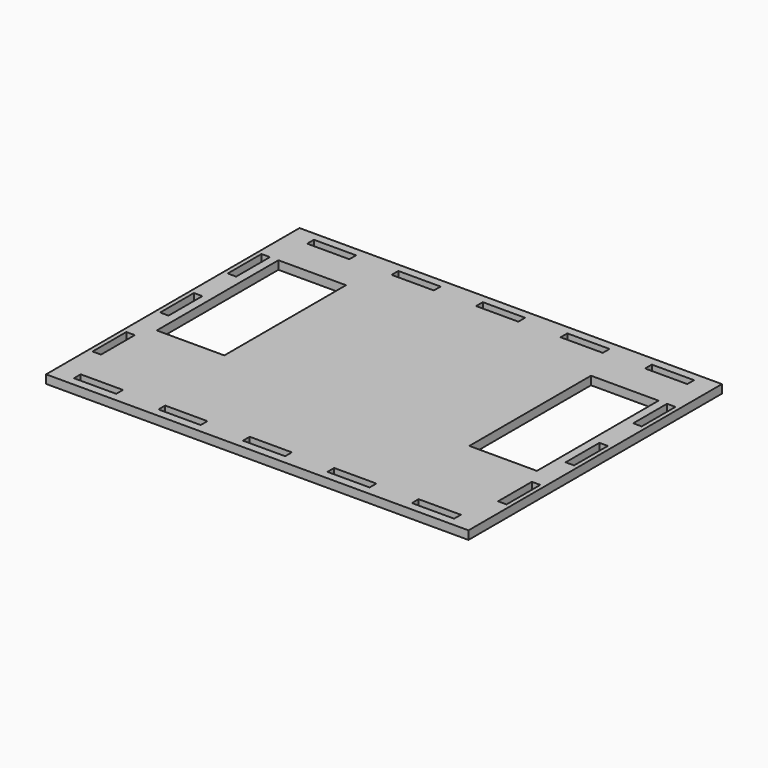
from build123d import *

# Parameters (mm, degrees)
F0_W     = 20
F0_H     = 4
F0_W_2   = 32
F0_H_2   = 72
F1_DEPTH = 4


with BuildPart() as f1:
    # F0 (on Top) → F1 (new body)
    with BuildSketch(Plane.XY):
        Polygon((100, -10), (100, 75), (30, 75), (10, 75), (-100, 75), (-100, -75), (100, -75), (100, -70), (100, -50), (100, -30), align=None)
        with Locations((-80, -69)):
            Rectangle(F0_W, F0_H, mode=Mode.SUBTRACT)
        Polygon((-98, -30), (-94, -30), (-94, -40), (-94, -50), (-98, -50), (-98, -40), align=None, mode=Mode.SUBTRACT)
        with Locations((-40, -69)):
            Rectangle(F0_W, F0_H, mode=Mode.SUBTRACT)
        with Locations((0, -69)):
            Rectangle(F0_W, F0_H, mode=Mode.SUBTRACT)
        with Locations((40, -69)):
            Rectangle(F0_W, F0_H, mode=Mode.SUBTRACT)
        with Locations((80, -69)):
            Rectangle(F0_W, F0_H, mode=Mode.SUBTRACT)
        Polygon((94, -40), (94, -30), (98, -30), (98, -40), (98, -50), (94, -50), align=None, mode=Mode.SUBTRACT)
        Polygon((-98, -10), (-98, 0), (-98, 10), (-94, 10), (-94, 0), (-94, -10), align=None, mode=Mode.SUBTRACT)
        with Locations((-74, 14)):
            Rectangle(F0_W_2, F0_H_2, mode=Mode.SUBTRACT)
        Polygon((-98, 30), (-98, 40), (-98, 50), (-94, 50), (-94, 40), (-94, 30), align=None, mode=Mode.SUBTRACT)
        with Locations((-80, 69)):
            Rectangle(F0_W, F0_H, mode=Mode.SUBTRACT)
        with Locations((-40, 69)):
            Rectangle(F0_W, F0_H, mode=Mode.SUBTRACT)
        with Locations((74, 14)):
            Rectangle(F0_W_2, F0_H_2, mode=Mode.SUBTRACT)
        Polygon((94, -10), (94, 0), (94, 10), (98, 10), (98, 0), (98, -10), align=None, mode=Mode.SUBTRACT)
        with Locations((0, 69)):
            Rectangle(F0_W, F0_H, mode=Mode.SUBTRACT)
        with Locations((40, 69)):
            Rectangle(F0_W, F0_H, mode=Mode.SUBTRACT)
        Polygon((98, 40), (98, 30), (94, 30), (94, 40), (94, 50), (98, 50), align=None, mode=Mode.SUBTRACT)
        with Locations((80, 69)):
            Rectangle(F0_W, F0_H, mode=Mode.SUBTRACT)
    extrude(amount=F1_DEPTH)


solid = f1.part
